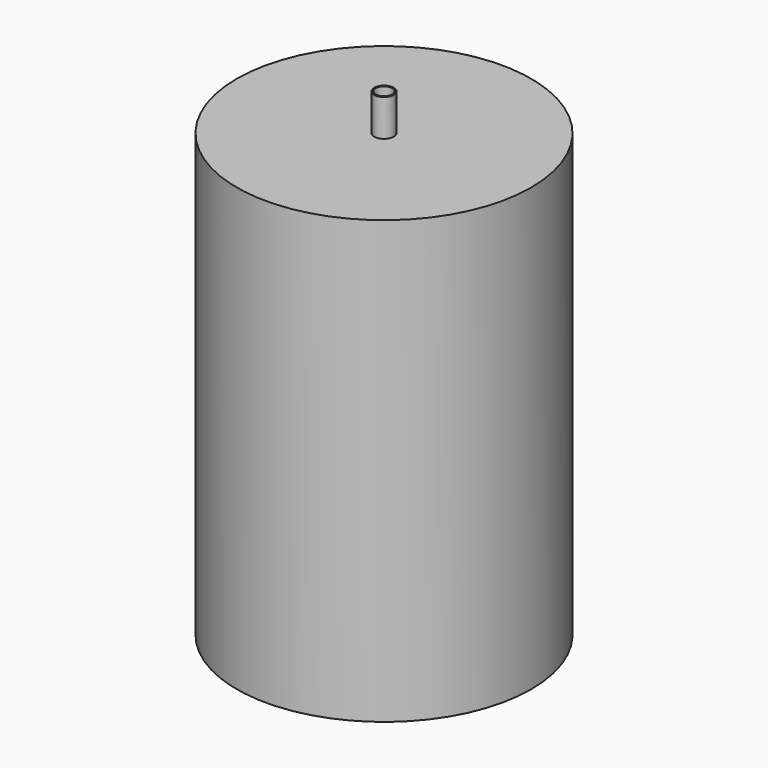
from build123d import *

# Parameters (mm, degrees)
F0_R     = 40
F1_DEPTH = 120
F2_R     = 2.65
F3_DEPTH = 10
F4_R     = 2.25
F5_DEPTH = 25
F6_R     = 37.5
F7_DEPTH = 119
F8_R     = 39.694818
F9_DEPTH = 1


with BuildPart() as f1:
    # F0 (on Top) → F1 (new body)
    with BuildSketch(Plane.XY):
        with Locations((-32.717515, 13.759183)):
            Circle(F0_R)
    extrude(amount=F1_DEPTH)

    # F2 (on face) → F3 (join)
    with BuildSketch(Plane.XY.offset(120)):
        with Locations((-32.717515, 13.759183)):
            Circle(F2_R)
    extrude(amount=F3_DEPTH)

    # F4 (on face) → F5 (cut)
    with BuildSketch(Plane.XY.offset(130)):
        with Locations((-32.717515, 13.759183)):
            Circle(F4_R)
    extrude(amount=-F5_DEPTH, mode=Mode.SUBTRACT)

    # F6 (on face) → F7 (cut)
    with BuildSketch(Plane(origin=(0, 0, 0), x_dir=(1, 0, 0), z_dir=(0, 0, -1))):
        with Locations((-32.717515, -13.759183)):
            Circle(F6_R)
    extrude(amount=-F7_DEPTH, mode=Mode.SUBTRACT)

    # F8 (on Top) → F9 (join)
    with BuildSketch(Plane.XY):
        with Locations((-32.779191, 13.591371)):
            Circle(F8_R)
    extrude(amount=F9_DEPTH)


solid = f1.part
